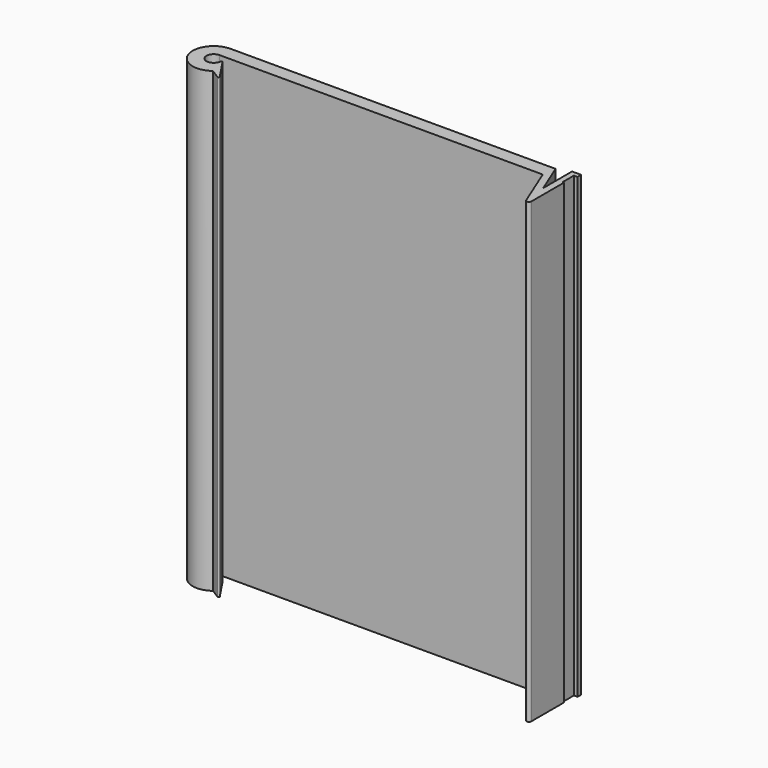
from build123d import *

# Parameters (mm, degrees)
F1_DEPTH = 100


with BuildPart() as f1:
    # F0 (on Top) → F1 (new body)
    with BuildSketch(Plane.XY):
        with BuildLine():
            Line((-70.685191, 17.464442), (-0.085445, 17.464442))
            Line((-0.085445, 17.464442), (3.651579, 8.266085))
            ThreePointArc((3.651579, 8.266085), (4.210687, 7.963561), (4.614809, 8.454282))
            Line((4.614809, 8.454282), (4.614809, 17.364442))
            Line((4.614809, 17.364442), (4.314809, 17.364442))
            Line((4.314809, 17.364442), (4.314809, 20.464442))
            Line((4.314809, 20.464442), (4.614809, 20.464442))
            Line((4.614809, 20.464442), (5.114809, 20.464442))
            Line((5.114809, 20.464442), (5.114809, 21.464442))
            Line((5.114809, 21.464442), (3.114809, 21.464442))
            Line((3.114809, 21.464442), (3.114809, 13.572488))
            Line((3.114809, 13.572488), (0.314809, 20.464442))
            Line((0.314809, 20.464442), (-70.685191, 20.464442))
            ThreePointArc((-70.685191, 20.464442), (-75.046537, 14.402025), (-67.912102, 12.194295))
            Line((-67.912102, 12.194295), (-65.933831, 10.947257))
            ThreePointArc((-65.933831, 10.947257), (-65.683874, 10.976935), (-65.660909, 11.227598))
            Line((-65.660909, 11.227598), (-68.726272, 15.813079))
            ThreePointArc((-68.726272, 15.813079), (-68.941912, 15.89574), (-69.091725, 15.719986))
            ThreePointArc((-69.091725, 15.719986), (-71.866531, 14.785352), (-70.685191, 17.464442))
        make_face()
    extrude(amount=F1_DEPTH)


solid = f1.part
